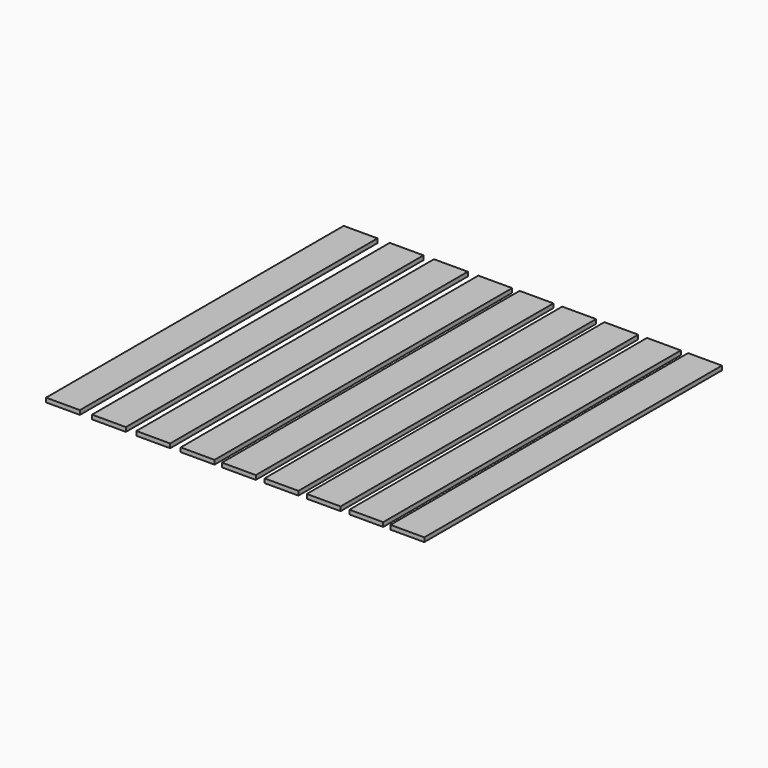
from build123d import *

# Parameters (mm, degrees)
F0_W     = 12.7
F0_H     = 139.7
F1_DEPTH = 1.5875


with BuildPart() as f1:
    # F0 (on Top) → F1 (new body)
    with BuildSketch(Plane.XY):
        with Locations((6.35, 69.85)):
            Rectangle(F0_W, F0_H)
        with Locations((23.622003, 69.85)):
            Rectangle(F0_W, F0_H)
        with Locations((40.247366, 69.85)):
            Rectangle(F0_W, F0_H)
        with Locations((56.918286, 69.85)):
            Rectangle(F0_W, F0_H)
        with Locations((72.412286, 69.85)):
            Rectangle(F0_W, F0_H)
        with Locations((88.414286, 69.85)):
            Rectangle(F0_W, F0_H)
        with Locations((104.248379, 69.85)):
            Rectangle(F0_W, F0_H)
        with Locations((120.243777, 69.85)):
            Rectangle(F0_W, F0_H)
        with Locations((135.687743, 69.85)):
            Rectangle(F0_W, F0_H)
    extrude(amount=F1_DEPTH)


solid = f1.part
